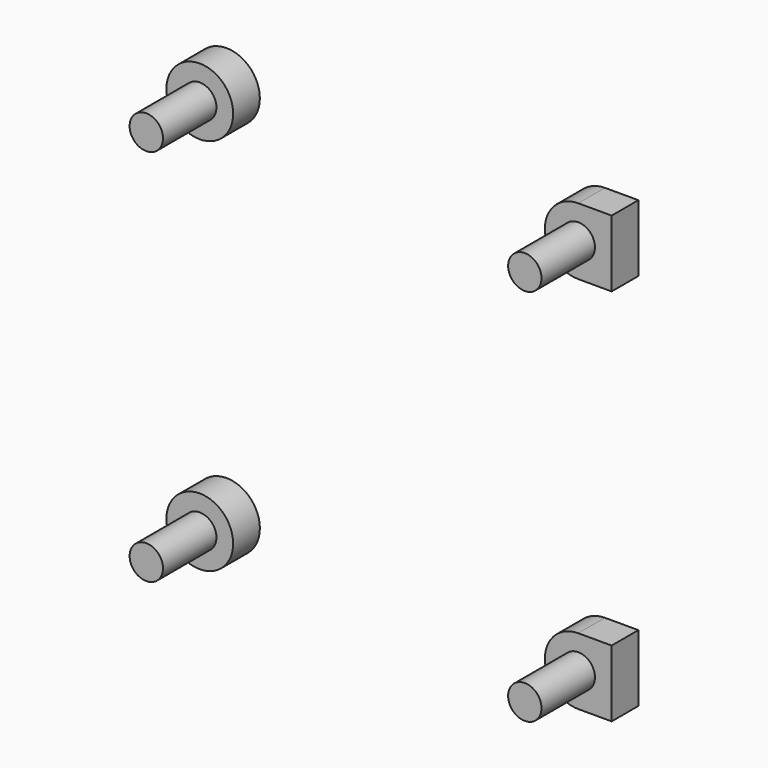
from build123d import *

# Parameters (mm, degrees)
CYLINDER029_R     = 1.5
CYLINDER029_DEPTH = 9
CYLINDER028_R     = 1.5
CYLINDER028_DEPTH = 9
BOX_W             = 3
BOX_H             = 3
BOX_DEPTH         = 6
CYLINDER030_R     = 3
CYLINDER030_DEPTH = 3
CYLINDER026_R     = 3
CYLINDER026_DEPTH = 3
CYLINDER027_R     = 1.5
CYLINDER027_DEPTH = 9
BOX001_W          = 3
BOX001_H          = 3
BOX001_DEPTH      = 6
CYLINDER032_R     = 3
CYLINDER032_DEPTH = 3
CYLINDER031_R     = 3
CYLINDER031_DEPTH = 3
CYLINDER025_R     = 1.5
CYLINDER025_DEPTH = 9


with BuildPart() as cylinder029:
    # Cylinder029 → Cylinder029 (new body)
    with BuildSketch(Plane(origin=(0, 0, 34), x_dir=(1, 0, 0), z_dir=(0, -1, 0))):
        Circle(CYLINDER029_R)
    extrude(amount=CYLINDER029_DEPTH)


with BuildPart() as cylinder028:
    # Cylinder028 → Cylinder028 (new body)
    with BuildSketch(Plane(origin=(-34, 0, 34), x_dir=(1, 0, 0), z_dir=(0, -1, 0))):
        Circle(CYLINDER028_R)
    extrude(amount=CYLINDER028_DEPTH)


with BuildPart() as cube:
    # Box → Box (new body)
    with BuildSketch(Plane(origin=(0, -3, -3), x_dir=(1, 0, 0), z_dir=(0, 0, 1))):
        with Locations((1.5, 1.5)):
            Rectangle(BOX_W, BOX_H)
    extrude(amount=BOX_DEPTH)


with BuildPart() as cylinder030:
    # Cylinder030 → Cylinder030 (new body)
    with BuildSketch(Plane(origin=(-34, 0, 0), x_dir=(1, 0, 0), z_dir=(0, -1, 0))):
        Circle(CYLINDER030_R)
    extrude(amount=CYLINDER030_DEPTH)


with BuildPart() as cylinder026:
    # Cylinder026 → Cylinder026 (new body)
    with BuildSketch(Plane.XZ):
        Circle(CYLINDER026_R)
    extrude(amount=CYLINDER026_DEPTH)


with BuildPart() as cylinder027:
    # Cylinder027 → Cylinder027 (new body)
    with BuildSketch(Plane(origin=(-34, 0, 0), x_dir=(1, 0, 0), z_dir=(0, -1, 0))):
        Circle(CYLINDER027_R)
    extrude(amount=CYLINDER027_DEPTH)


with BuildPart() as cube001:
    # Box001 → Box001 (new body)
    with BuildSketch(Plane(origin=(0, -3, 31), x_dir=(1, 0, 0), z_dir=(0, 0, 1))):
        with Locations((1.5, 1.5)):
            Rectangle(BOX001_W, BOX001_H)
    extrude(amount=BOX001_DEPTH)


with BuildPart() as cylinder032:
    # Cylinder032 → Cylinder032 (new body)
    with BuildSketch(Plane(origin=(0, 0, 34), x_dir=(1, 0, 0), z_dir=(0, -1, 0))):
        Circle(CYLINDER032_R)
    extrude(amount=CYLINDER032_DEPTH)


with BuildPart() as cylinder031:
    # Cylinder031 → Cylinder031 (new body)
    with BuildSketch(Plane(origin=(-34, 0, 34), x_dir=(1, 0, 0), z_dir=(0, -1, 0))):
        Circle(CYLINDER031_R)
    extrude(amount=CYLINDER031_DEPTH)


with BuildPart() as obj1:
    # Cylinder025 → Cylinder025 (new body)
    with BuildSketch(Plane.XZ):
        Circle(CYLINDER025_R)
    extrude(amount=CYLINDER025_DEPTH)

    # Fusion: union Cylinder029, Cylinder028, Cube, Cylinder030, Cylinder026, Cylinder027, Cube001, Cylinder032, Cylinder031
    add(cylinder029.part)
    add(cylinder028.part)
    add(cube.part)
    add(cylinder030.part)
    add(cylinder026.part)
    add(cylinder027.part)
    add(cube001.part)
    add(cylinder032.part)
    add(cylinder031.part)


with BuildPart() as obj1_1:
    # Fusion placement: moved
    add(obj1.part.moved(Location((29, 0, 1.5))))


solid = obj1_1.part
